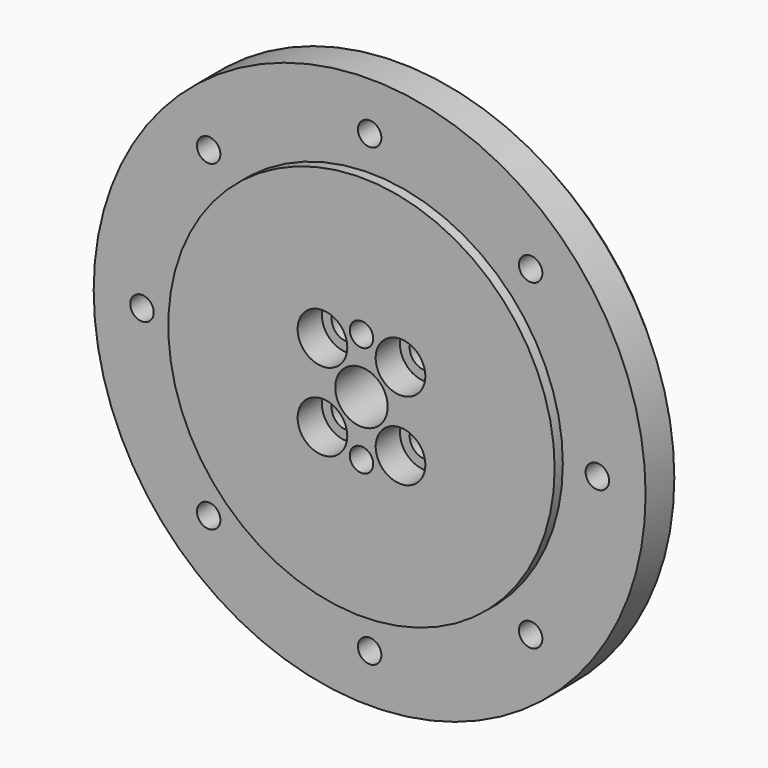
from build123d import *

# Parameters (mm, degrees)
F0_R      = 70
F1_DEPTH  = 3.7
F0_R_2    = 100
F2_DEPTH  = 17
F4_R      = 37.5
F5_DEPTH  = 50
F8_R      = 59
F6_R      = 65
F10_SIZE  = 4
F12_R     = 27.5
F13_DEPTH = 51
F15_DEPTH = 35
F16_R     = 9.5
F17_DEPTH = 20.7
F18_R     = 5.5
F18_R_2   = 4.25
F19_DEPTH = 20.7
F18_R_3   = 9
F20_DEPTH = 11
F21_R     = 4.25
F22_DEPTH = 17


with BuildPart() as f1:
    # F0 (on Front) → F1 (new body)
    with BuildSketch(Plane.XZ):
        Circle(F0_R)
    extrude(amount=F1_DEPTH)

    # F0 (on Front) → F2 (join)
    with BuildSketch(Plane.XZ):
        Circle(F0_R_2)
        Circle(F0_R, mode=Mode.SUBTRACT)
        Circle(F0_R)
    extrude(amount=-F2_DEPTH)

    # F4 (on offset) → F5 (join)
    with BuildSketch(Plane(origin=(0, 17, 0), x_dir=(-1, 0, 0), z_dir=(0, 1, 0))):
        Circle(F4_R)
    extrude(amount=F5_DEPTH)

    # F8 (on offset) → F9 section 0
    with BuildSketch(Plane(origin=(0, 15, 0), x_dir=(-1, 0, 0), z_dir=(0, 1, 0))):
        Circle(F8_R)
    # F6 (on offset) → F9 section 1
    with BuildSketch(Plane(origin=(0, 17, 0), x_dir=(-1, 0, 0), z_dir=(0, 1, 0))):
        Circle(F6_R)
    loft(mode=Mode.SUBTRACT)

    # F10
    f10_edges = [f1.edges().sort_by_distance(p)[0] for p in [
        (-100, 17, 0),
    ]]
    chamfer(f10_edges, length=F10_SIZE)

    # F12 (on offset) → F13 (cut)
    with BuildSketch(Plane(origin=(0, 67, 0), x_dir=(-1, 0, 0), z_dir=(0, 1, 0))):
        Circle(F12_R)
    extrude(amount=-F13_DEPTH, mode=Mode.SUBTRACT)

    # F14 (on face) → F15 (cut)
    with BuildSketch(Plane(origin=(0, 67, 0), x_dir=(-1, 0, 0), z_dir=(0, 1, 0))):
        with BuildLine():
            ThreePointArc((-25.6173769149, -10), (-27.5, 0), (-25.6173769149, 10))
            Line((-25.6173769149, 10), (-36.142080737, 10))
            ThreePointArc((-36.142080737, 10), (-37.5, 0), (-36.142080737, -10))
            Line((-36.142080737, -10), (-25.6173769149, -10))
        make_face()
        with BuildLine():
            Line((36.142080737, 10), (25.6173769149, 10))
            ThreePointArc((25.6173769149, 10), (27.0252462076, 5.0878352391), (27.5, 0))
            ThreePointArc((27.5, 0), (27.0252462076, -5.0878352391), (25.6173769149, -10))
            Line((25.6173769149, -10), (36.142080737, -10))
            ThreePointArc((36.142080737, -10), (37.1589694935, -5.0458880468), (37.5, 0))
            ThreePointArc((37.5, 0), (37.1589694935, 5.0458880468), (36.142080737, 10))
        make_face()
    extrude(amount=-F15_DEPTH, mode=Mode.SUBTRACT)

    # F16 (on face) → F17 (cut)
    with BuildSketch(Plane.XZ.offset(3.7)):
        Circle(F16_R)
    extrude(amount=-F17_DEPTH, mode=Mode.SUBTRACT)

    # F18 (on face) → F19 (cut)
    with BuildSketch(Plane.XZ.offset(3.7)):
        with Locations((-14.1421356237, 14.1421356237)):
            Circle(F18_R)
        with Locations((14.1421356237, 14.1421356237)):
            Circle(F18_R)
        with Locations((14.1421356237, -14.1421356237)):
            Circle(F18_R)
        with Locations((-14.1421356237, -14.1421356237)):
            Circle(F18_R)
        with Locations((0, -20)):
            Circle(F18_R_2)
        with Locations((0, 20)):
            Circle(F18_R_2)
    extrude(amount=-F19_DEPTH, mode=Mode.SUBTRACT)

    # F18 (on face) → F20 (cut)
    with BuildSketch(Plane.XZ.offset(3.7)):
        with Locations((-14.1421356237, 14.1421356237)):
            Circle(F18_R_3)
        with Locations((-14.1421356237, 14.1421356237)):
            Circle(F18_R, mode=Mode.SUBTRACT)
        with Locations((14.1421356237, 14.1421356237)):
            Circle(F18_R_3)
        with Locations((14.1421356237, 14.1421356237)):
            Circle(F18_R, mode=Mode.SUBTRACT)
        with Locations((14.1421356237, -14.1421356237)):
            Circle(F18_R_3)
        with Locations((14.1421356237, -14.1421356237)):
            Circle(F18_R, mode=Mode.SUBTRACT)
        with Locations((-14.1421356237, -14.1421356237)):
            Circle(F18_R_3)
        with Locations((-14.1421356237, -14.1421356237)):
            Circle(F18_R, mode=Mode.SUBTRACT)
    extrude(amount=-F20_DEPTH, mode=Mode.SUBTRACT)

    # F21 (on face) → F22 (cut)
    with BuildSketch(Plane.XZ):
        with Locations((-58.3363094479, 58.3363094479)):
            Circle(F21_R)
        with Locations((0, 82.5)):
            Circle(F21_R)
        with Locations((58.3363094479, 58.3363094479)):
            Circle(F21_R)
        with Locations((82.5, 0)):
            Circle(F21_R)
        with Locations((58.3363094479, -58.3363094479)):
            Circle(F21_R)
        with Locations((0, -82.5)):
            Circle(F21_R)
        with Locations((-58.3363094479, -58.3363094479)):
            Circle(F21_R)
        with Locations((-82.5, 0)):
            Circle(F21_R)
    extrude(amount=-F22_DEPTH, mode=Mode.SUBTRACT)


solid = f1.part
